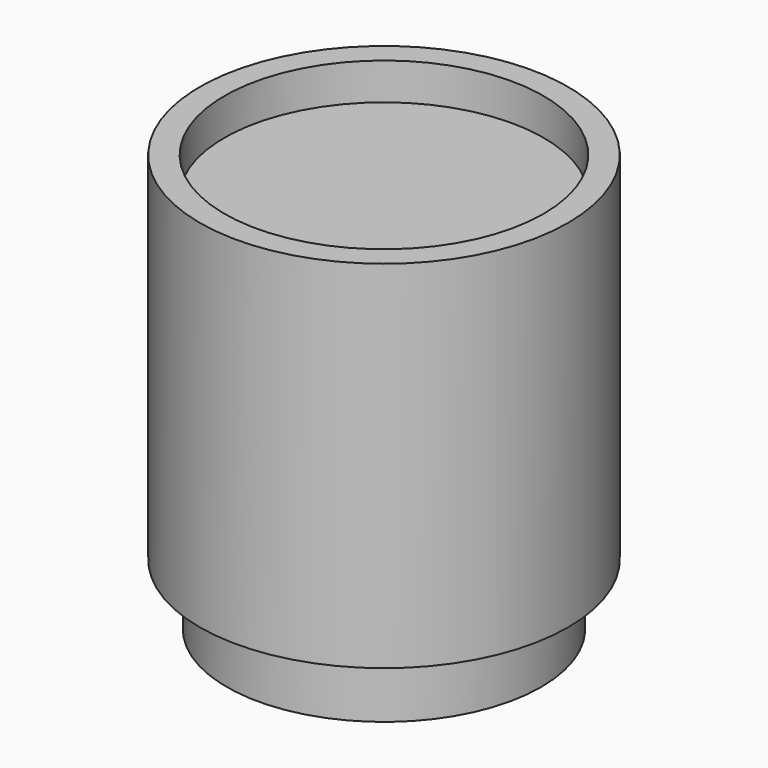
from build123d import *


with BuildPart() as part:
    # Sketch → Revolution (revolve)
    with BuildSketch(Plane.XZ):
        Polygon((0, 0), (12.8, 0), (12.8, 5), (15, 5), (15, 34), (13, 34), (13, 31), (0, 31), align=None)
    revolve(axis=Axis((0, 0, 0), (0, 0, 1)))


solid = part.part
